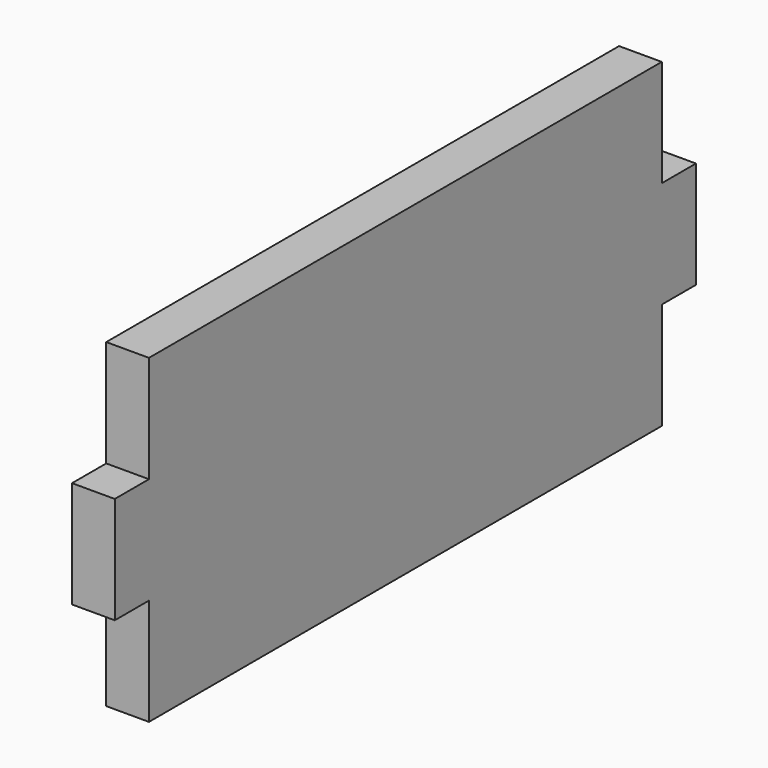
from build123d import *

# Parameters (mm, degrees)
F1_DEPTH = 12


with BuildPart() as f1:
    # F0 (on Right) → F1 (new body)
    with BuildSketch(Plane.YZ):
        Polygon((0, 30), (0, 0), (90, 0), (90, 90), (0, 90), (0, 60), (-12, 60), (-12, 30), align=None)
        Polygon((90, 90), (90, 0), (180, 0), (180, 30), (192, 30), (192, 60), (180, 60), (180, 90), align=None)
    extrude(amount=F1_DEPTH)


solid = f1.part
